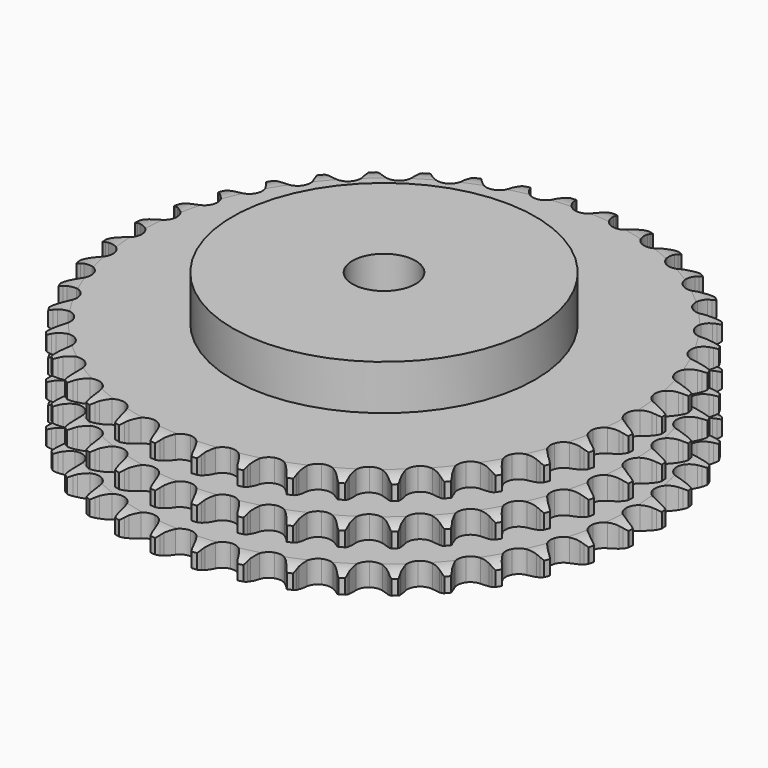
from build123d import *

# Parameters (mm, degrees)
PAD_DEPTH         = 42.1
SKETCH001_R       = 60
PAD001_DEPTH      = 60
SKETCH002_R       = 12.5
POCKET_DEPTH      = 0.001
POCKET_DEPTH_BACK = 60.001


with BuildPart() as part:
    # Sprocket → Pad (new body)
    with BuildSketch(Plane.XY):
        with BuildLine():
            ThreePointArc((-8.329899, 105.841401), (-7.222908, 104.449857), (-6.440604, 102.85304))
            Line((-6.440604, 102.85304), (-5.945285, 101.484738))
            ThreePointArc((-5.945285, 101.484738), (-5.16247, 99.730627), (-4.134638, 98.107894))
            ThreePointArc((-4.134638, 98.107894), (-2.315081, 96.574328), (0, 96.023865))
            ThreePointArc((0, 96.023865), (2.315081, 96.574328), (4.134638, 98.107894))
            ThreePointArc((4.134638, 98.107894), (5.16247, 99.730627), (5.945285, 101.484738))
            Line((5.945285, 101.484738), (6.440604, 102.85304))
            ThreePointArc((6.440604, 102.85304), (7.222908, 104.449857), (8.329899, 105.841401))
            ThreePointArc((8.329899, 105.841401), (9.205576, 104.293818), (9.728451, 102.594281))
            Line((9.728451, 102.594281), (10.003622, 101.16534))
            ThreePointArc((10.003622, 101.16534), (10.502396, 99.310366), (11.263722, 97.546823))
            ThreePointArc((11.263722, 97.546823), (12.820975, 95.747496), (15.021442, 94.841652))
            ThreePointArc((15.021442, 94.841652), (17.394132, 95.023179), (19.431189, 96.253223))
            Line((19.431189, 96.253223), (21.7478, 99.305245))
            ThreePointArc((21.7478, 99.305245), (22.081961, 99.951877), (22.45107, 100.579216))
            ThreePointArc((22.45107, 100.579216), (23.473539, 102.033995), (24.784587, 103.235234))
            ThreePointArc((24.784587, 103.235234), (25.407388, 101.569719), (25.657959, 99.80931))
            Line((25.657959, 99.80931), (25.706206, 98.354915))
            ThreePointArc((25.706206, 98.354915), (25.908658, 96.444754), (26.384732, 94.583826))
            ThreePointArc((26.384732, 94.583826), (27.641335, 92.563044), (29.673006, 91.324123))
            ThreePointArc((29.673006, 91.324123), (32.044882, 91.132245), (34.249281, 92.028479))
            Line((34.249281, 92.028479), (37.014811, 94.680527))
            ThreePointArc((37.014811, 94.680527), (37.446013, 95.266924), (37.908716, 95.828798))
            ThreePointArc((37.908716, 95.828798), (39.146174, 97.105716), (40.628996, 98.087074))
            ThreePointArc((40.628996, 98.087074), (40.983585, 96.344636), (40.955683, 94.566703))
            Line((40.955683, 94.566703), (40.775819, 93.122666))
            ThreePointArc((40.775819, 93.122666), (40.676963, 91.204352), (40.856063, 89.29186))
            ThreePointArc((40.856063, 89.29186), (41.781075, 87.099381), (43.593923, 85.55789))
            ThreePointArc((43.593923, 85.55789), (45.90658, 84.997331), (48.224041, 85.537688))
            Line((48.224041, 85.537688), (51.370395, 87.72446))
            ThreePointArc((51.370395, 87.72446), (51.888021, 88.236183), (52.432923, 88.718757))
            ThreePointArc((52.432923, 88.718757), (53.854901, 89.786373), (55.472985, 90.523684))
            ThreePointArc((55.472985, 90.523684), (55.550631, 88.747228), (55.244942, 86.99555))
            Line((55.244942, 86.99555), (54.841395, 85.597429))
            ThreePointArc((54.841395, 85.597429), (54.443666, 83.718196), (54.321381, 81.801233))
            ThreePointArc((54.321381, 81.801233), (54.892026, 79.491043), (56.441412, 77.684939))
            ThreePointArc((56.441412, 77.684939), (58.637906, 76.769502), (61.011366, 76.940675))
            Line((61.011366, 76.940675), (64.461069, 78.608326))
            ThreePointArc((64.461069, 78.608326), (65.052373, 79.032774), (65.666058, 79.424166))
            ThreePointArc((65.666058, 79.424166), (67.237541, 80.256191), (68.951044, 80.7313))
            ThreePointArc((68.951044, 80.7313), (68.749835, 78.964569), (68.173888, 77.282277))
            Line((68.173888, 77.282277), (67.556595, 75.964498))
            ThreePointArc((67.556595, 75.964498), (66.869785, 74.170621), (66.449127, 72.296388))
            ThreePointArc((66.449127, 72.296388), (66.651353, 69.925372), (67.899126, 67.899126))
            ThreePointArc((67.899126, 67.899126), (69.925372, 66.651353), (72.296388, 66.449127))
            Line((72.296388, 66.449127), (75.964498, 67.556595))
            ThreePointArc((75.964498, 67.556595), (76.61492, 67.883316), (77.282277, 68.173888))
            ThreePointArc((77.282277, 68.173888), (78.964569, 68.749835), (80.7313, 68.951044))
            ThreePointArc((80.7313, 68.951044), (80.256191, 67.237541), (79.424166, 65.666058))
            Line((79.424166, 65.666058), (78.608326, 64.461069))
            ThreePointArc((78.608326, 64.461069), (77.649349, 62.796718), (76.940675, 61.011366))
            ThreePointArc((76.940675, 61.011366), (76.769502, 58.637906), (77.684939, 56.441412))
            ThreePointArc((77.684939, 56.441412), (79.491043, 54.892026), (81.801233, 54.321381))
            Line((81.801233, 54.321381), (85.597429, 54.841395))
            ThreePointArc((85.597429, 54.841395), (86.290954, 55.062346), (86.99555, 55.244942))
            ThreePointArc((86.99555, 55.244942), (88.747228, 55.550631), (90.523684, 55.472985))
            ThreePointArc((90.523684, 55.472985), (89.786373, 53.854901), (88.718757, 52.432923))
            Line((88.718757, 52.432923), (87.72446, 51.370395))
            ThreePointArc((87.72446, 51.370395), (86.516927, 49.876552), (85.537688, 48.224041))
            ThreePointArc((85.537688, 48.224041), (84.997331, 45.90658), (85.55789, 43.593923))
            ThreePointArc((85.55789, 43.593923), (87.099381, 41.781075), (89.29186, 40.856063))
            Line((89.29186, 40.856063), (93.122666, 40.775819))
            ThreePointArc((93.122666, 40.775819), (93.842218, 40.885558), (94.566703, 40.955683))
            ThreePointArc((94.566703, 40.955683), (96.344636, 40.983585), (98.087074, 40.628996))
            ThreePointArc((98.087074, 40.628996), (97.105716, 39.146174), (95.828798, 37.908716))
            Line((95.828798, 37.908716), (94.680527, 37.014811))
            ThreePointArc((94.680527, 37.014811), (93.254172, 35.72826), (92.028479, 34.249281))
            ThreePointArc((92.028479, 34.249281), (91.132245, 32.044882), (91.324123, 29.673006))
            ThreePointArc((91.324123, 29.673006), (92.563044, 27.641335), (94.583826, 26.384732))
            Line((94.583826, 26.384732), (98.354915, 25.706206))
            ThreePointArc((98.354915, 25.706206), (99.082775, 25.702032), (99.80931, 25.657959))
            ThreePointArc((99.80931, 25.657959), (101.569719, 25.407388), (103.235234, 24.784587))
            ThreePointArc((103.235234, 24.784587), (102.033995, 23.473539), (100.579216, 22.45107))
            Line((100.579216, 22.45107), (99.305245, 21.7478))
            ThreePointArc((99.305245, 21.7478), (97.69519, 20.700219), (96.253223, 19.431189))
            ThreePointArc((96.253223, 19.431189), (95.023179, 17.394132), (94.841652, 15.021442))
            ThreePointArc((94.841652, 15.021442), (95.747496, 12.820975), (97.546823, 11.263722))
            Line((97.546823, 11.263722), (101.16534, 10.003622))
            ThreePointArc((101.16534, 10.003622), (101.883585, 9.885636), (102.594281, 9.728451))
            ThreePointArc((102.594281, 9.728451), (104.293818, 9.205576), (105.841401, 8.329899))
            ThreePointArc((105.841401, 8.329899), (104.449857, 7.222908), (102.85304, 6.440604))
            Line((102.85304, 6.440604), (101.484738, 5.945285))
            ThreePointArc((101.484738, 5.945285), (99.730627, 5.16247), (98.107894, 4.134638))
            ThreePointArc((98.107894, 4.134638), (96.574328, 2.315081), (96.023865, 0))
            ThreePointArc((96.023865, 0), (96.574328, -2.315081), (98.107894, -4.134638))
            Line((98.107894, -4.134638), (101.484738, -5.945285))
            ThreePointArc((101.484738, -5.945285), (102.175683, -6.174177), (102.85304, -6.440604))
            ThreePointArc((102.85304, -6.440604), (104.449857, -7.222908), (105.841401, -8.329899))
            ThreePointArc((105.841401, -8.329899), (104.293818, -9.205576), (102.594281, -9.728451))
            Line((102.594281, -9.728451), (101.16534, -10.003622))
            ThreePointArc((101.16534, -10.003622), (99.310366, -10.502396), (97.546823, -11.263722))
            ThreePointArc((97.546823, -11.263722), (95.747496, -12.820975), (94.841652, -15.021442))
            ThreePointArc((94.841652, -15.021442), (95.023179, -17.394132), (96.253223, -19.431189))
            Line((96.253223, -19.431189), (99.305245, -21.7478))
            ThreePointArc((99.305245, -21.7478), (99.951877, -22.081961), (100.579216, -22.45107))
            ThreePointArc((100.579216, -22.45107), (102.033995, -23.473539), (103.235234, -24.784587))
            ThreePointArc((103.235234, -24.784587), (101.569719, -25.407388), (99.80931, -25.657959))
            Line((99.80931, -25.657959), (98.354915, -25.706206))
            ThreePointArc((98.354915, -25.706206), (96.444754, -25.908658), (94.583826, -26.384732))
            ThreePointArc((94.583826, -26.384732), (92.563044, -27.641335), (91.324123, -29.673006))
            ThreePointArc((91.324123, -29.673006), (91.132245, -32.044882), (92.028479, -34.249281))
            Line((92.028479, -34.249281), (94.680527, -37.014811))
            ThreePointArc((94.680527, -37.014811), (95.266924, -37.446013), (95.828798, -37.908716))
            ThreePointArc((95.828798, -37.908716), (97.105716, -39.146174), (98.087074, -40.628996))
            ThreePointArc((98.087074, -40.628996), (96.344636, -40.983585), (94.566703, -40.955683))
            Line((94.566703, -40.955683), (93.122666, -40.775819))
            ThreePointArc((93.122666, -40.775819), (91.204352, -40.676963), (89.29186, -40.856063))
            ThreePointArc((89.29186, -40.856063), (87.099381, -41.781075), (85.55789, -43.593923))
            ThreePointArc((85.55789, -43.593923), (84.997331, -45.90658), (85.537688, -48.224041))
            Line((85.537688, -48.224041), (87.72446, -51.370395))
            ThreePointArc((87.72446, -51.370395), (88.236183, -51.888021), (88.718757, -52.432923))
            ThreePointArc((88.718757, -52.432923), (89.786373, -53.854901), (90.523684, -55.472985))
            ThreePointArc((90.523684, -55.472985), (88.747228, -55.550631), (86.99555, -55.244942))
            Line((86.99555, -55.244942), (85.597429, -54.841395))
            ThreePointArc((85.597429, -54.841395), (83.718196, -54.443666), (81.801233, -54.321381))
            ThreePointArc((81.801233, -54.321381), (79.491043, -54.892026), (77.684939, -56.441412))
            ThreePointArc((77.684939, -56.441412), (76.769502, -58.637906), (76.940675, -61.011366))
            Line((76.940675, -61.011366), (78.608326, -64.461069))
            ThreePointArc((78.608326, -64.461069), (79.032774, -65.052373), (79.424166, -65.666058))
            ThreePointArc((79.424166, -65.666058), (80.256191, -67.237541), (80.7313, -68.951044))
            ThreePointArc((80.7313, -68.951044), (78.964569, -68.749835), (77.282277, -68.173888))
            Line((77.282277, -68.173888), (75.964498, -67.556595))
            ThreePointArc((75.964498, -67.556595), (74.170621, -66.869785), (72.296388, -66.449127))
            ThreePointArc((72.296388, -66.449127), (69.925372, -66.651353), (67.899126, -67.899126))
            ThreePointArc((67.899126, -67.899126), (66.651353, -69.925372), (66.449127, -72.296388))
            Line((66.449127, -72.296388), (67.556595, -75.964498))
            ThreePointArc((67.556595, -75.964498), (67.883316, -76.61492), (68.173888, -77.282277))
            ThreePointArc((68.173888, -77.282277), (68.749835, -78.964569), (68.951044, -80.7313))
            ThreePointArc((68.951044, -80.7313), (67.237541, -80.256191), (65.666058, -79.424166))
            Line((65.666058, -79.424166), (64.461069, -78.608326))
            ThreePointArc((64.461069, -78.608326), (62.796718, -77.649349), (61.011366, -76.940675))
            ThreePointArc((61.011366, -76.940675), (58.637906, -76.769502), (56.441412, -77.684939))
            ThreePointArc((56.441412, -77.684939), (54.892026, -79.491043), (54.321381, -81.801233))
            Line((54.321381, -81.801233), (54.841395, -85.597429))
            ThreePointArc((54.841395, -85.597429), (55.062346, -86.290954), (55.244942, -86.99555))
            ThreePointArc((55.244942, -86.99555), (55.550631, -88.747228), (55.472985, -90.523684))
            ThreePointArc((55.472985, -90.523684), (53.854901, -89.786373), (52.432923, -88.718757))
            Line((52.432923, -88.718757), (51.370395, -87.72446))
            ThreePointArc((51.370395, -87.72446), (49.876552, -86.516927), (48.224041, -85.537688))
            ThreePointArc((48.224041, -85.537688), (45.90658, -84.997331), (43.593923, -85.55789))
            ThreePointArc((43.593923, -85.55789), (41.781075, -87.099381), (40.856063, -89.29186))
            Line((40.856063, -89.29186), (40.775819, -93.122666))
            ThreePointArc((40.775819, -93.122666), (40.885558, -93.842218), (40.955683, -94.566703))
            ThreePointArc((40.955683, -94.566703), (40.983585, -96.344636), (40.628996, -98.087074))
            ThreePointArc((40.628996, -98.087074), (39.146174, -97.105716), (37.908716, -95.828798))
            Line((37.908716, -95.828798), (37.014811, -94.680527))
            ThreePointArc((37.014811, -94.680527), (35.72826, -93.254172), (34.249281, -92.028479))
            ThreePointArc((34.249281, -92.028479), (32.044882, -91.132245), (29.673006, -91.324123))
            ThreePointArc((29.673006, -91.324123), (27.641335, -92.563044), (26.384732, -94.583826))
            Line((26.384732, -94.583826), (25.706206, -98.354915))
            ThreePointArc((25.706206, -98.354915), (25.702032, -99.082775), (25.657959, -99.80931))
            ThreePointArc((25.657959, -99.80931), (25.407388, -101.569719), (24.784587, -103.235234))
            ThreePointArc((24.784587, -103.235234), (23.473539, -102.033995), (22.45107, -100.579216))
            Line((22.45107, -100.579216), (21.7478, -99.305245))
            ThreePointArc((21.7478, -99.305245), (20.700219, -97.69519), (19.431189, -96.253223))
            ThreePointArc((19.431189, -96.253223), (17.394132, -95.023179), (15.021442, -94.841652))
            ThreePointArc((15.021442, -94.841652), (12.820975, -95.747496), (11.263722, -97.546823))
            Line((11.263722, -97.546823), (10.003622, -101.16534))
            ThreePointArc((10.003622, -101.16534), (9.885636, -101.883585), (9.728451, -102.594281))
            ThreePointArc((9.728451, -102.594281), (9.205576, -104.293818), (8.329899, -105.841401))
            ThreePointArc((8.329899, -105.841401), (7.222908, -104.449857), (6.440604, -102.85304))
            Line((6.440604, -102.85304), (5.945285, -101.484738))
            ThreePointArc((5.945285, -101.484738), (5.16247, -99.730627), (4.134638, -98.107894))
            ThreePointArc((4.134638, -98.107894), (2.315081, -96.574328), (0, -96.023865))
            ThreePointArc((0, -96.023865), (-2.315081, -96.574328), (-4.134638, -98.107894))
            Line((-4.134638, -98.107894), (-5.945285, -101.484738))
            ThreePointArc((-5.945285, -101.484738), (-6.174177, -102.175683), (-6.440604, -102.85304))
            ThreePointArc((-6.440604, -102.85304), (-7.222908, -104.449857), (-8.329899, -105.841401))
            ThreePointArc((-8.329899, -105.841401), (-9.205576, -104.293818), (-9.728451, -102.594281))
            Line((-9.728451, -102.594281), (-10.003622, -101.16534))
            ThreePointArc((-10.003622, -101.16534), (-10.502396, -99.310366), (-11.263722, -97.546823))
            ThreePointArc((-11.263722, -97.546823), (-12.820975, -95.747496), (-15.021442, -94.841652))
            ThreePointArc((-15.021442, -94.841652), (-17.394132, -95.023179), (-19.431189, -96.253223))
            Line((-19.431189, -96.253223), (-21.7478, -99.305245))
            ThreePointArc((-21.7478, -99.305245), (-22.081961, -99.951877), (-22.45107, -100.579216))
            ThreePointArc((-22.45107, -100.579216), (-23.473539, -102.033995), (-24.784587, -103.235234))
            ThreePointArc((-24.784587, -103.235234), (-25.407388, -101.569719), (-25.657959, -99.80931))
            Line((-25.657959, -99.80931), (-25.706206, -98.354915))
            ThreePointArc((-25.706206, -98.354915), (-25.908658, -96.444754), (-26.384732, -94.583826))
            ThreePointArc((-26.384732, -94.583826), (-27.641335, -92.563044), (-29.673006, -91.324123))
            ThreePointArc((-29.673006, -91.324123), (-32.044882, -91.132245), (-34.249281, -92.028479))
            Line((-34.249281, -92.028479), (-37.014811, -94.680527))
            ThreePointArc((-37.014811, -94.680527), (-37.446013, -95.266924), (-37.908716, -95.828798))
            ThreePointArc((-37.908716, -95.828798), (-39.146174, -97.105716), (-40.628996, -98.087074))
            ThreePointArc((-40.628996, -98.087074), (-40.983585, -96.344636), (-40.955683, -94.566703))
            Line((-40.955683, -94.566703), (-40.775819, -93.122666))
            ThreePointArc((-40.775819, -93.122666), (-40.676963, -91.204352), (-40.856063, -89.29186))
            ThreePointArc((-40.856063, -89.29186), (-41.781075, -87.099381), (-43.593923, -85.55789))
            ThreePointArc((-43.593923, -85.55789), (-45.90658, -84.997331), (-48.224041, -85.537688))
            Line((-48.224041, -85.537688), (-51.370395, -87.72446))
            ThreePointArc((-51.370395, -87.72446), (-51.888021, -88.236183), (-52.432923, -88.718757))
            ThreePointArc((-52.432923, -88.718757), (-53.854901, -89.786373), (-55.472985, -90.523684))
            ThreePointArc((-55.472985, -90.523684), (-55.550631, -88.747228), (-55.244942, -86.99555))
            Line((-55.244942, -86.99555), (-54.841395, -85.597429))
            ThreePointArc((-54.841395, -85.597429), (-54.443666, -83.718196), (-54.321381, -81.801233))
            ThreePointArc((-54.321381, -81.801233), (-54.892026, -79.491043), (-56.441412, -77.684939))
            ThreePointArc((-56.441412, -77.684939), (-58.637906, -76.769502), (-61.011366, -76.940675))
            Line((-61.011366, -76.940675), (-64.461069, -78.608326))
            ThreePointArc((-64.461069, -78.608326), (-65.052373, -79.032774), (-65.666058, -79.424166))
            ThreePointArc((-65.666058, -79.424166), (-67.237541, -80.256191), (-68.951044, -80.7313))
            ThreePointArc((-68.951044, -80.7313), (-68.749835, -78.964569), (-68.173888, -77.282277))
            Line((-68.173888, -77.282277), (-67.556595, -75.964498))
            ThreePointArc((-67.556595, -75.964498), (-66.869785, -74.170621), (-66.449127, -72.296388))
            ThreePointArc((-66.449127, -72.296388), (-66.651353, -69.925372), (-67.899126, -67.899126))
            ThreePointArc((-67.899126, -67.899126), (-69.925372, -66.651353), (-72.296388, -66.449127))
            Line((-72.296388, -66.449127), (-75.964498, -67.556595))
            ThreePointArc((-75.964498, -67.556595), (-76.61492, -67.883316), (-77.282277, -68.173888))
            ThreePointArc((-77.282277, -68.173888), (-78.964569, -68.749835), (-80.7313, -68.951044))
            ThreePointArc((-80.7313, -68.951044), (-80.256191, -67.237541), (-79.424166, -65.666058))
            Line((-79.424166, -65.666058), (-78.608326, -64.461069))
            ThreePointArc((-78.608326, -64.461069), (-77.649349, -62.796718), (-76.940675, -61.011366))
            ThreePointArc((-76.940675, -61.011366), (-76.769502, -58.637906), (-77.684939, -56.441412))
            ThreePointArc((-77.684939, -56.441412), (-79.491043, -54.892026), (-81.801233, -54.321381))
            Line((-81.801233, -54.321381), (-85.597429, -54.841395))
            ThreePointArc((-85.597429, -54.841395), (-86.290954, -55.062346), (-86.99555, -55.244942))
            ThreePointArc((-86.99555, -55.244942), (-88.747228, -55.550631), (-90.523684, -55.472985))
            ThreePointArc((-90.523684, -55.472985), (-89.786373, -53.854901), (-88.718757, -52.432923))
            Line((-88.718757, -52.432923), (-87.72446, -51.370395))
            ThreePointArc((-87.72446, -51.370395), (-86.516927, -49.876552), (-85.537688, -48.224041))
            ThreePointArc((-85.537688, -48.224041), (-84.997331, -45.90658), (-85.55789, -43.593923))
            ThreePointArc((-85.55789, -43.593923), (-87.099381, -41.781075), (-89.29186, -40.856063))
            Line((-89.29186, -40.856063), (-93.122666, -40.775819))
            ThreePointArc((-93.122666, -40.775819), (-93.842218, -40.885558), (-94.566703, -40.955683))
            ThreePointArc((-94.566703, -40.955683), (-96.344636, -40.983585), (-98.087074, -40.628996))
            ThreePointArc((-98.087074, -40.628996), (-97.105716, -39.146174), (-95.828798, -37.908716))
            Line((-95.828798, -37.908716), (-94.680527, -37.014811))
            ThreePointArc((-94.680527, -37.014811), (-93.254172, -35.72826), (-92.028479, -34.249281))
            ThreePointArc((-92.028479, -34.249281), (-91.132245, -32.044882), (-91.324123, -29.673006))
            ThreePointArc((-91.324123, -29.673006), (-92.563044, -27.641335), (-94.583826, -26.384732))
            Line((-94.583826, -26.384732), (-98.354915, -25.706206))
            ThreePointArc((-98.354915, -25.706206), (-99.082775, -25.702032), (-99.80931, -25.657959))
            ThreePointArc((-99.80931, -25.657959), (-101.569719, -25.407388), (-103.235234, -24.784587))
            ThreePointArc((-103.235234, -24.784587), (-102.033995, -23.473539), (-100.579216, -22.45107))
            Line((-100.579216, -22.45107), (-99.305245, -21.7478))
            ThreePointArc((-99.305245, -21.7478), (-97.69519, -20.700219), (-96.253223, -19.431189))
            ThreePointArc((-96.253223, -19.431189), (-95.023179, -17.394132), (-94.841652, -15.021442))
            ThreePointArc((-94.841652, -15.021442), (-95.747496, -12.820975), (-97.546823, -11.263722))
            Line((-97.546823, -11.263722), (-101.16534, -10.003622))
            ThreePointArc((-101.16534, -10.003622), (-101.883585, -9.885636), (-102.594281, -9.728451))
            ThreePointArc((-102.594281, -9.728451), (-104.293818, -9.205576), (-105.841401, -8.329899))
            ThreePointArc((-105.841401, -8.329899), (-104.449857, -7.222908), (-102.85304, -6.440604))
            Line((-102.85304, -6.440604), (-101.484738, -5.945285))
            ThreePointArc((-101.484738, -5.945285), (-99.730627, -5.16247), (-98.107894, -4.134638))
            ThreePointArc((-98.107894, -4.134638), (-96.574328, -2.315081), (-96.023865, 0))
            ThreePointArc((-96.023865, 0), (-96.574328, 2.315081), (-98.107894, 4.134638))
            Line((-98.107894, 4.134638), (-101.484738, 5.945285))
            ThreePointArc((-101.484738, 5.945285), (-102.175683, 6.174177), (-102.85304, 6.440604))
            ThreePointArc((-102.85304, 6.440604), (-104.449857, 7.222908), (-105.841401, 8.329899))
            ThreePointArc((-105.841401, 8.329899), (-104.293818, 9.205576), (-102.594281, 9.728451))
            Line((-102.594281, 9.728451), (-101.16534, 10.003622))
            ThreePointArc((-101.16534, 10.003622), (-99.310366, 10.502396), (-97.546823, 11.263722))
            ThreePointArc((-97.546823, 11.263722), (-95.747496, 12.820975), (-94.841652, 15.021442))
            ThreePointArc((-94.841652, 15.021442), (-95.023179, 17.394132), (-96.253223, 19.431189))
            Line((-96.253223, 19.431189), (-99.305245, 21.7478))
            ThreePointArc((-99.305245, 21.7478), (-99.951877, 22.081961), (-100.579216, 22.45107))
            ThreePointArc((-100.579216, 22.45107), (-102.033995, 23.473539), (-103.235234, 24.784587))
            ThreePointArc((-103.235234, 24.784587), (-101.569719, 25.407388), (-99.80931, 25.657959))
            Line((-99.80931, 25.657959), (-98.354915, 25.706206))
            ThreePointArc((-98.354915, 25.706206), (-96.444754, 25.908658), (-94.583826, 26.384732))
            ThreePointArc((-94.583826, 26.384732), (-92.563044, 27.641335), (-91.324123, 29.673006))
            ThreePointArc((-91.324123, 29.673006), (-91.132245, 32.044882), (-92.028479, 34.249281))
            Line((-92.028479, 34.249281), (-94.680527, 37.014811))
            ThreePointArc((-94.680527, 37.014811), (-95.266924, 37.446013), (-95.828798, 37.908716))
            ThreePointArc((-95.828798, 37.908716), (-97.105716, 39.146174), (-98.087074, 40.628996))
            ThreePointArc((-98.087074, 40.628996), (-96.344636, 40.983585), (-94.566703, 40.955683))
            Line((-94.566703, 40.955683), (-93.122666, 40.775819))
            ThreePointArc((-93.122666, 40.775819), (-91.204352, 40.676963), (-89.29186, 40.856063))
            ThreePointArc((-89.29186, 40.856063), (-87.099381, 41.781075), (-85.55789, 43.593923))
            ThreePointArc((-85.55789, 43.593923), (-84.997331, 45.90658), (-85.537688, 48.224041))
            Line((-85.537688, 48.224041), (-87.72446, 51.370395))
            ThreePointArc((-87.72446, 51.370395), (-88.236183, 51.888021), (-88.718757, 52.432923))
            ThreePointArc((-88.718757, 52.432923), (-89.786373, 53.854901), (-90.523684, 55.472985))
            ThreePointArc((-90.523684, 55.472985), (-88.747228, 55.550631), (-86.99555, 55.244942))
            Line((-86.99555, 55.244942), (-85.597429, 54.841395))
            ThreePointArc((-85.597429, 54.841395), (-83.718196, 54.443666), (-81.801233, 54.321381))
            ThreePointArc((-81.801233, 54.321381), (-79.491043, 54.892026), (-77.684939, 56.441412))
            ThreePointArc((-77.684939, 56.441412), (-76.769502, 58.637906), (-76.940675, 61.011366))
            Line((-76.940675, 61.011366), (-78.608326, 64.461069))
            ThreePointArc((-78.608326, 64.461069), (-79.032774, 65.052373), (-79.424166, 65.666058))
            ThreePointArc((-79.424166, 65.666058), (-80.256191, 67.237541), (-80.7313, 68.951044))
            ThreePointArc((-80.7313, 68.951044), (-78.964569, 68.749835), (-77.282277, 68.173888))
            Line((-77.282277, 68.173888), (-75.964498, 67.556595))
            ThreePointArc((-75.964498, 67.556595), (-74.170621, 66.869785), (-72.296388, 66.449127))
            ThreePointArc((-72.296388, 66.449127), (-69.925372, 66.651353), (-67.899126, 67.899126))
            ThreePointArc((-67.899126, 67.899126), (-66.651353, 69.925372), (-66.449127, 72.296388))
            Line((-66.449127, 72.296388), (-67.556595, 75.964498))
            ThreePointArc((-67.556595, 75.964498), (-67.883316, 76.61492), (-68.173888, 77.282277))
            ThreePointArc((-68.173888, 77.282277), (-68.749835, 78.964569), (-68.951044, 80.7313))
            ThreePointArc((-68.951044, 80.7313), (-67.237541, 80.256191), (-65.666058, 79.424166))
            Line((-65.666058, 79.424166), (-64.461069, 78.608326))
            ThreePointArc((-64.461069, 78.608326), (-62.796718, 77.649349), (-61.011366, 76.940675))
            ThreePointArc((-61.011366, 76.940675), (-58.637906, 76.769502), (-56.441412, 77.684939))
            ThreePointArc((-56.441412, 77.684939), (-54.892026, 79.491043), (-54.321381, 81.801233))
            Line((-54.321381, 81.801233), (-54.841395, 85.597429))
            ThreePointArc((-54.841395, 85.597429), (-55.062346, 86.290954), (-55.244942, 86.99555))
            ThreePointArc((-55.244942, 86.99555), (-55.550631, 88.747228), (-55.472985, 90.523684))
            ThreePointArc((-55.472985, 90.523684), (-53.854901, 89.786373), (-52.432923, 88.718757))
            Line((-52.432923, 88.718757), (-51.370395, 87.72446))
            ThreePointArc((-51.370395, 87.72446), (-49.876552, 86.516927), (-48.224041, 85.537688))
            ThreePointArc((-48.224041, 85.537688), (-45.90658, 84.997331), (-43.593923, 85.55789))
            ThreePointArc((-43.593923, 85.55789), (-41.781075, 87.099381), (-40.856063, 89.29186))
            Line((-40.856063, 89.29186), (-40.775819, 93.122666))
            ThreePointArc((-40.775819, 93.122666), (-40.885558, 93.842218), (-40.955683, 94.566703))
            ThreePointArc((-40.955683, 94.566703), (-40.983585, 96.344636), (-40.628996, 98.087074))
            ThreePointArc((-40.628996, 98.087074), (-39.146174, 97.105716), (-37.908716, 95.828798))
            Line((-37.908716, 95.828798), (-37.014811, 94.680527))
            ThreePointArc((-37.014811, 94.680527), (-35.72826, 93.254172), (-34.249281, 92.028479))
            ThreePointArc((-34.249281, 92.028479), (-32.044882, 91.132245), (-29.673006, 91.324123))
            ThreePointArc((-29.673006, 91.324123), (-27.641335, 92.563044), (-26.384732, 94.583826))
            Line((-26.384732, 94.583826), (-25.706206, 98.354915))
            ThreePointArc((-25.706206, 98.354915), (-25.702032, 99.082775), (-25.657959, 99.80931))
            ThreePointArc((-25.657959, 99.80931), (-25.407388, 101.569719), (-24.784587, 103.235234))
            ThreePointArc((-24.784587, 103.235234), (-23.473539, 102.033995), (-22.45107, 100.579216))
            Line((-22.45107, 100.579216), (-21.7478, 99.305245))
            ThreePointArc((-21.7478, 99.305245), (-20.700219, 97.69519), (-19.431189, 96.253223))
            ThreePointArc((-19.431189, 96.253223), (-17.394132, 95.023179), (-15.021442, 94.841652))
            ThreePointArc((-15.021442, 94.841652), (-12.820975, 95.747496), (-11.263722, 97.546823))
            Line((-11.263722, 97.546823), (-10.003622, 101.16534))
            ThreePointArc((-10.003622, 101.16534), (-9.885636, 101.883585), (-9.728451, 102.594281))
            ThreePointArc((-9.728451, 102.594281), (-9.205576, 104.293818), (-8.329899, 105.841401))
        make_face()
    extrude(amount=PAD_DEPTH)

    # Sketch → Groove (revolve, cut)
    with BuildSketch(Plane.XZ):
        with BuildLine():
            ThreePointArc((97.675762, 0), (101.25347, 0.405129), (104.65, 1.6))
            Line((104.65, 1.6), (104.65, 7.4))
            ThreePointArc((104.65, 7.4), (101.25347, 8.594871), (97.675762, 9))
            Line((60, 9), (97.675762, 9))
            Line((60, 9), (60, 16.55))
            Line((60, 16.55), (97.675762, 16.55))
            ThreePointArc((97.675762, 16.55), (101.25347, 16.955129), (104.65, 18.15))
            Line((104.65, 23.95), (104.65, 18.15))
            ThreePointArc((104.65, 23.95), (101.25347, 25.144871), (97.675762, 25.55))
            Line((60, 25.55), (97.675762, 25.55))
            Line((60, 33.1), (60, 25.55))
            Line((97.675762, 33.1), (60, 33.1))
            ThreePointArc((97.675762, 33.1), (101.25347, 33.505129), (104.65, 34.7))
            Line((104.65, 34.7), (104.65, 40.5))
            ThreePointArc((104.65, 40.5), (101.25347, 41.694871), (97.675762, 42.1))
            Line((97.675762, 42.1), (114.65, 42.1))
            Line((114.65, 42.1), (114.65, 0))
            Line((97.675762, 0), (114.65, 0))
        make_face()
    revolve(axis=Axis((0, 0, 0), (0, 0, 1)), mode=Mode.SUBTRACT)

    # Sketch001 → Pad001 (join)
    with BuildSketch(Plane.XY):
        Circle(SKETCH001_R)
    extrude(amount=PAD001_DEPTH)

    # Sketch002 → Pocket (cut, two sides)
    with BuildSketch(Plane.XY) as pocket_sk:
        Circle(SKETCH002_R)
    extrude(amount=-POCKET_DEPTH, mode=Mode.SUBTRACT)
    extrude(pocket_sk.sketch, amount=POCKET_DEPTH_BACK, mode=Mode.SUBTRACT)


solid = part.part
